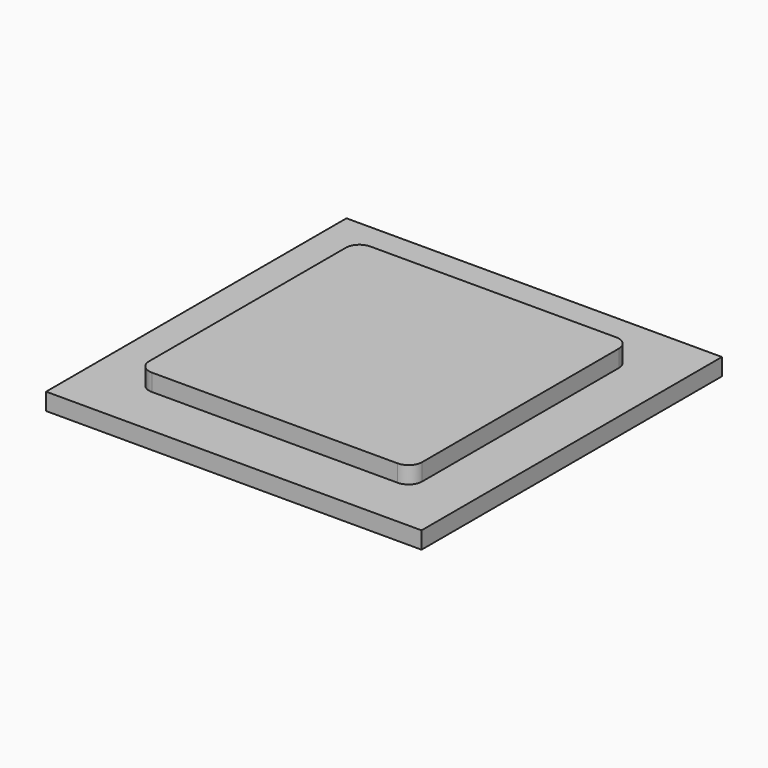
from build123d import *

# Parameters (mm, degrees)
F0_W     = 139.7
F0_H     = 139.7
F1_DEPTH = 6.35
F2_W     = 101.6
F2_H     = 101.6
F3_DEPTH = 6.35
F4_R     = 5.08


with BuildPart() as f1:
    # F0 (on Top) → F1 (new body)
    with BuildSketch(Plane.XY):
        Rectangle(F0_W, F0_H)
    extrude(amount=F1_DEPTH)

    # F2 (on face) → F3 (join)
    with BuildSketch(Plane.XY.offset(6.35)):
        Rectangle(F2_W, F2_H)
    extrude(amount=F3_DEPTH)

    # F4
    f4_edges = [f1.edges().sort_by_distance(p)[0] for p in [
        (50.8, -50.8, 9.525),
        (50.8, 50.8, 9.525),
        (-50.8, -50.8, 9.525),
        (-50.8, 50.8, 9.525),
    ]]
    fillet(f4_edges, radius=F4_R)


solid = f1.part
